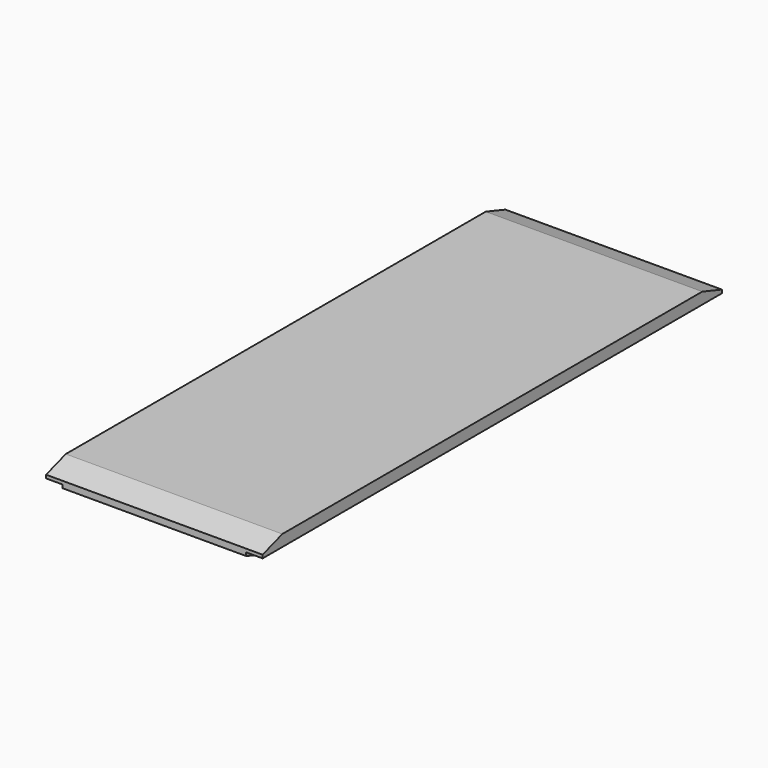
from build123d import *

# Parameters (mm, degrees)
F1_DEPTH   = 70
F2_SIZE2   = 3
F2_SIZE    = 1
F3_SIZE2   = 1
F3_SIZE    = 3
F3_2_SIZE2 = 1
F3_2_SIZE  = 3


with BuildPart() as f1:
    # F0 (on Front) → F1 (new body)
    with BuildSketch(Plane.XZ):
        Polygon((13.2, -10.2), (0, -10.2), (0, -13), (11.2, -13), (11.2, -11.6), (13.2, -11.6), align=None)
        Polygon((0, -13), (0, -10.2), (-13.2, -10.2), (-13.2, -11.6), (-11.2, -11.6), (-11.2, -13), align=None)
    extrude(amount=F1_DEPTH)

    # F2
    f2_edges = [f1.edges().sort_by_distance(p)[0] for p in [
        (0, -70, -13),
        (0, -70, -10.2),
    ]]
    f2_side = f1.faces().sort_by_distance((0, -70, -11.542623))[0]
    chamfer(f2_edges, length=F2_SIZE, length2=F2_SIZE2, reference=f2_side)

    # F3
    f3_edges = [f1.edges().sort_by_distance(p)[0] for p in [
        (0, 0, -10.2),
    ]]
    f3_side = f1.faces().sort_by_distance((0, -33.5, -10.2))[0]
    chamfer(f3_edges, length=F3_SIZE, length2=F3_SIZE2, reference=f3_side)

    # F3#2
    f3_2_edges = [f1.edges().sort_by_distance(p)[0] for p in [
        (0, 0, -13),
    ]]
    f3_2_side = f1.faces().sort_by_distance((0, -33.5, -13))[0]
    chamfer(f3_2_edges, length=F3_2_SIZE, length2=F3_2_SIZE2, reference=f3_2_side)


solid = f1.part
